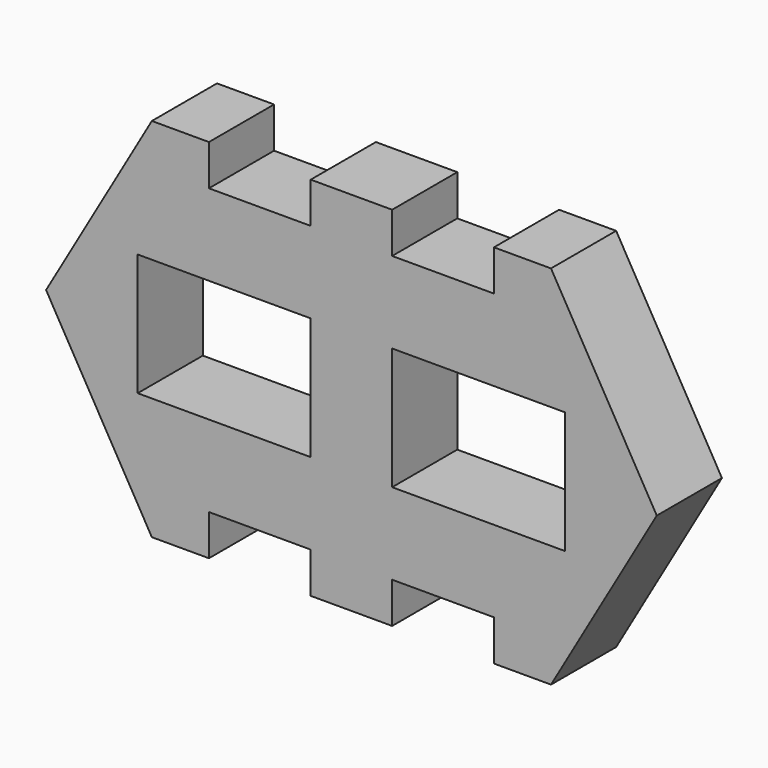
from build123d import *

# Parameters (mm, degrees)
F0_W     = 53.975
F0_H     = 38.1
F1_DEPTH = 12.7


with BuildPart() as f1:
    # F0 (on Front) → F1 (new body, symmetric)
    with BuildSketch(Plane.XZ):
        Polygon((-44.45, 57.15), (-62.2544321158, 57.15), (-95.25, 0), (-62.2544321158, -57.15), (-44.45, -57.15), (-44.45, -44.45), (-12.7, -44.45), (-12.7, -57.15), (12.7, -57.15), (12.7, -44.45), (44.45, -44.45), (44.45, -57.15), (62.2544321158, -57.15), (95.25, 0), (62.2544321158, 57.15), (44.45, 57.15), (44.45, 44.45), (12.7, 44.45), (12.7, 57.15), (-12.7, 57.15), (-12.7, 44.45), (-44.45, 44.45), align=None)
        with Locations((-39.6875, 0)):
            Rectangle(F0_W, F0_H, mode=Mode.SUBTRACT)
        with Locations((39.6875, 0)):
            Rectangle(F0_W, F0_H, mode=Mode.SUBTRACT)
    extrude(amount=F1_DEPTH, both=True)


solid = f1.part
